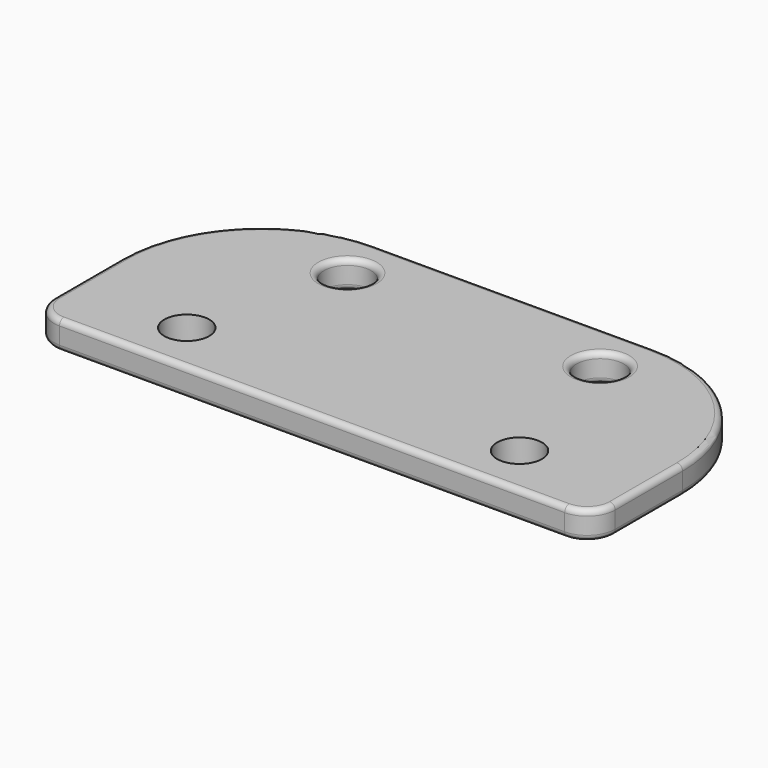
from build123d import *

# Parameters (mm, degrees)
F0_R     = 4.2
F1_DEPTH = 5
F2_R     = 5
F3_R     = 1
F4_R     = 4
F5_DEPTH = 5.001


with BuildPart() as f1:
    # F0 (on Top) → F1 (new body)
    with BuildSketch(Plane.XY):
        with BuildLine():
            Line((25, 22.5), (-25, 22.5))
            ThreePointArc((-25, 22.5), (-42.67767, 15.17767), (-50, -2.5))
            Line((-50, -2.5), (-50, -22.5))
            Line((-50, -22.5), (50, -22.5))
            Line((50, -22.5), (50, -2.5))
            ThreePointArc((50, -2.5), (42.67767, 15.17767), (25, 22.5))
        make_face()
        with Locations((-22.5, 13.5)):
            Circle(F0_R, mode=Mode.SUBTRACT)
        with Locations((22.5, 13.5)):
            Circle(F0_R, mode=Mode.SUBTRACT)
    extrude(amount=-F1_DEPTH)

    # F2
    f2_edges = [f1.edges().sort_by_distance(p)[0] for p in [
        (50, -22.5, -2.5),
        (-50, -22.5, -2.5),
    ]]
    fillet(f2_edges, radius=F2_R)

    # F3
    f3_edges = [f1.edges().sort_by_distance(p)[0] for p in [
        (-50, -10, 0),
        (-48.535534, -21.035534, 0),
        (-42.67767, 15.17767, 0),
        (0, -22.5, 0),
        (0, 22.5, 0),
        (48.535534, -21.035534, 0),
        (42.67767, 15.17767, 0),
        (50, -10, 0),
        (-26.7, 13.5, 0),
        (18.3, 13.5, 0),
        (-50, -10, -5),
        (-48.535534, -21.035534, -5),
        (-42.67767, 15.17767, -5),
        (0, -22.5, -5),
        (0, 22.5, -5),
        (48.535534, -21.035534, -5),
        (42.67767, 15.17767, -5),
        (50, -10, -5),
        (-26.7, 13.5, -5),
        (18.3, 13.5, -5),
    ]]
    fillet(f3_edges, radius=F3_R)

    # F4 (on face) → F5 (cut, through all)
    with BuildSketch(Plane.XY):
        with Locations((29.641269, -13.361172)):
            Circle(F4_R)
        with Locations((-29.641269, -13.361172)):
            Circle(F4_R)
    extrude(amount=-F5_DEPTH, mode=Mode.SUBTRACT)


solid = f1.part
